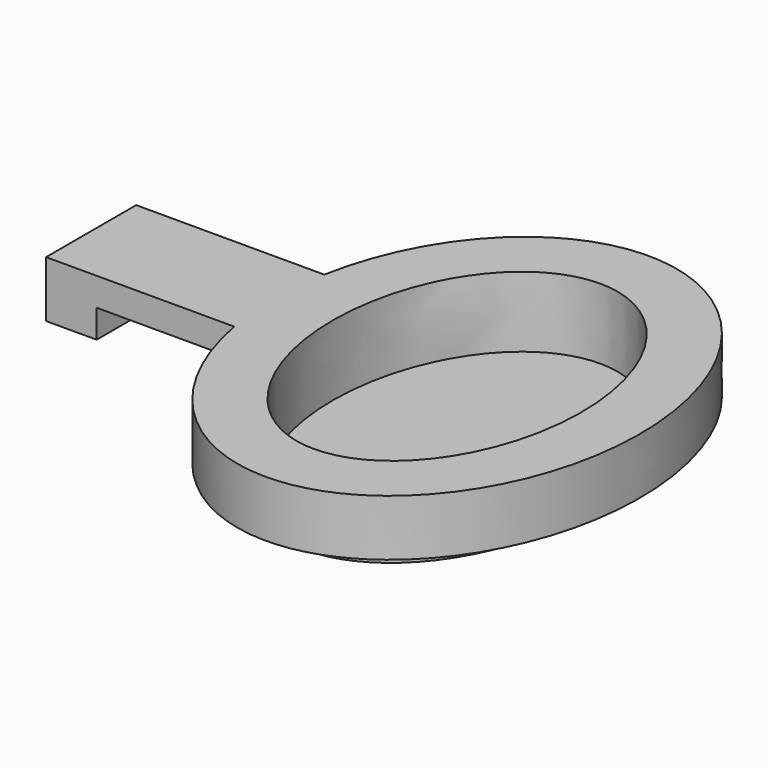
from build123d import *

# Parameters (mm, degrees)
PAD_DEPTH       = 1
PAD001_DEPTH    = 2
POCKET_DEPTH    = 2.5
SKETCH005_W     = 4.8863181656
SKETCH005_H     = 4
POCKET002_DEPTH = 1


with BuildPart() as part:
    # Sketch → Pad (new body)
    with BuildSketch(Plane.XY):
        with BuildLine():
            add(Edge.make_bspline(
                [(0, -6.75), (8.227241336, -6.75), (4.113620668, 3.375), (0, 13.5), (-4.113620668, 3.375), (-8.227241336, -6.75), (0, -6.75)],
                knots=[0, 0, 0, 2.0943951024, 2.0943951024, 4.1887902048, 4.1887902048, 6.2831853072, 6.2831853072, 6.2831853072], degree=2, weights=[1, 0.5, 1, 0.5, 1, 0.5, 1]))
        make_face()
    extrude(amount=PAD_DEPTH)

    # Sketch001 (on Face3 of Pad) → Pad001 (join)
    with BuildSketch(Plane.XY.offset(1)):
        with BuildLine():
            add(Edge.make_bspline(
                [(-6.3175073925, -2), (-4.0952186794, -14.0040385587), (3.6850355273, -7.0020192793), (11.4652897339, 0), (3.6850355273, 7.0020192793), (-4.0952186794, 14.0040385587), (-6.3175073925, 2)],
                knots=[1.8083174976, 1.8083174976, 1.8083174976, 3.7443651528, 3.7443651528, 5.680412808, 5.680412808, 7.6164604632, 7.6164604632, 7.6164604632], degree=2, weights=[1, 0.5669285427, 1, 0.5669285427, 1, 0.5669285427, 1]))
            Line((-6.3175073925, 2), (-13, 2))
            Line((-13, 2), (-13, -2))
            Line((-13, -2), (-6.3175073925, -2))
        make_face()
    extrude(amount=PAD001_DEPTH)

    # Sketch003 (on Face5 of Pad001) → Pocket (cut)
    with BuildSketch(Plane.XY.offset(3)):
        with BuildLine():
            add(Edge.make_bspline(
                [(0, -6.3581), (7.6520003338, -6.3581), (3.8260001669, 3.17905), (0, 12.7162), (-3.8260001669, 3.17905), (-7.6520003338, -6.3581), (0, -6.3581)],
                knots=[0, 0, 0, 2.0943951024, 2.0943951024, 4.1887902048, 4.1887902048, 6.2831853072, 6.2831853072, 6.2831853072], degree=2, weights=[1, 0.5, 1, 0.5, 1, 0.5, 1]))
        make_face()
    extrude(amount=-POCKET_DEPTH, mode=Mode.SUBTRACT)

    # Sketch005 → Pocket002 (cut)
    with BuildSketch(Plane(origin=(0, 0, 1), x_dir=(1, 0, 0), z_dir=(0, 0, -1))):
        with Locations((-8.7606664753, 0)):
            Rectangle(SKETCH005_W, SKETCH005_H)
    extrude(amount=-POCKET002_DEPTH, mode=Mode.SUBTRACT)


solid = part.part
